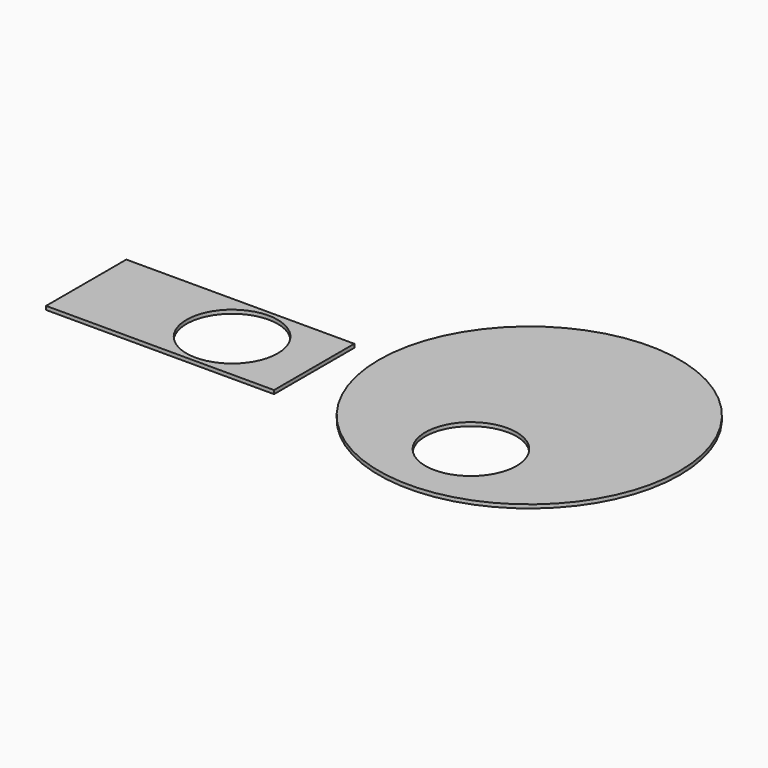
from build123d import *

# Parameters (mm, degrees)
F0_R     = 165
F0_R_2   = 50
F1_DEPTH = 4
F2_W     = 250
F2_H     = 110
F2_R     = 50
F3_DEPTH = 4


with BuildPart() as f1:
    # F0 (on Top) → F1 (new body)
    with BuildSketch(Plane.XY):
        Circle(F0_R)
        with Locations((0, -80)):
            Circle(F0_R_2, mode=Mode.SUBTRACT)
    extrude(amount=F1_DEPTH)


with BuildPart() as f3:
    # F2 (on face) → F3 (new body)
    with BuildSketch(Plane.XY.offset(4)):
        with Locations((-320.252021, -50.864105)):
            Rectangle(F2_W, F2_H)
        with Locations((-285.252021, -50.864105)):
            Circle(F2_R, mode=Mode.SUBTRACT)
    extrude(amount=F3_DEPTH)


solid = Compound([f1.part, f3.part])
